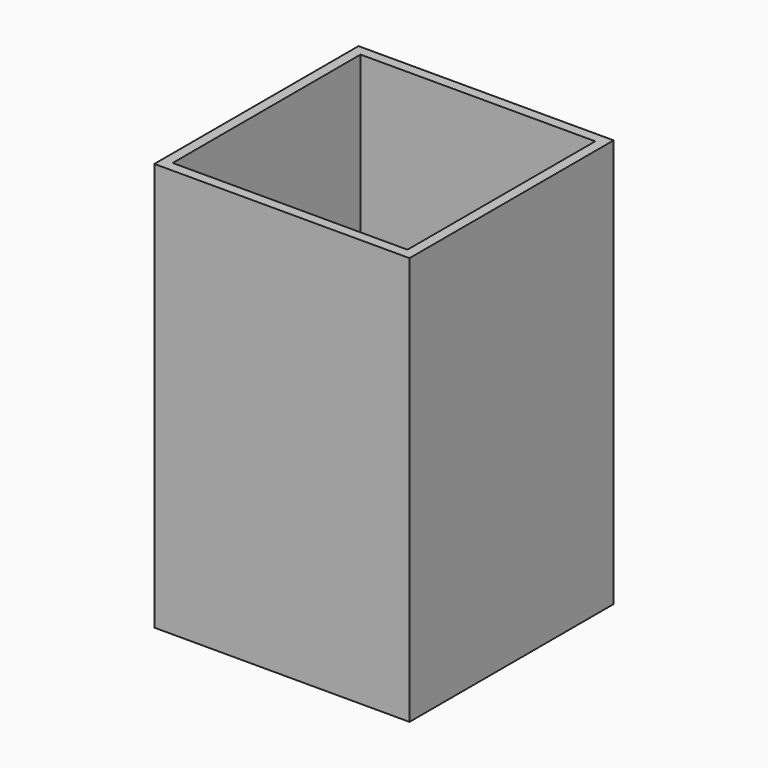
from build123d import *

# Parameters (mm, degrees)
BOX001_W     = 46
BOX001_H     = 46
BOX001_DEPTH = 78
BOX_W        = 50
BOX_H        = 50
BOX_DEPTH    = 80


with BuildPart() as obj1:
    # Box001 → Box001 (new body)
    with BuildSketch(Plane(origin=(2, 2, 2), x_dir=(1, 0, 0), z_dir=(0, 0, 1))):
        with Locations((23, 23)):
            Rectangle(BOX001_W, BOX001_H)
    extrude(amount=BOX001_DEPTH)


with BuildPart() as obj2:
    # Box → Box (new body)
    with BuildSketch(Plane.XY):
        with Locations((25, 25)):
            Rectangle(BOX_W, BOX_H)
    extrude(amount=BOX_DEPTH)

    # Cut: cut obj1
    add(obj1.part, mode=Mode.SUBTRACT)


solid = obj2.part
